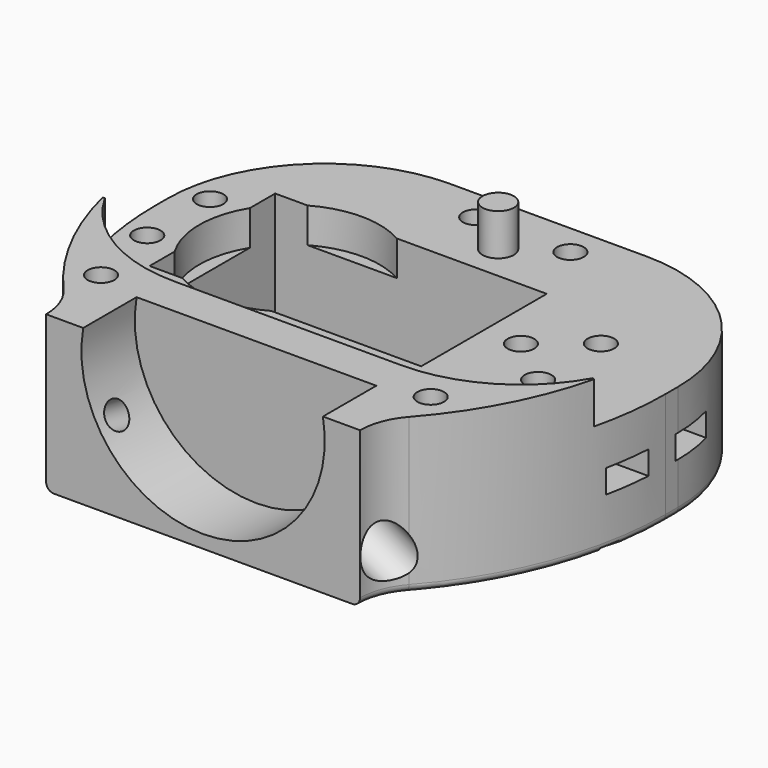
from build123d import *

# Parameters (mm, degrees)
SKETCH_R        = 1.7
SKETCH_W        = 34.6
SKETCH_H        = 20
PAD_DEPTH       = 19.8
SKETCH001_R     = 2
POCKET_DEPTH    = 5.3
CHAMFER_SIZE    = 1
SKETCH002_W     = 6.4
SKETCH002_H     = 20
POCKET001_DEPTH = 7.5
SKETCH003_R     = 1.7
POCKET002_DEPTH = 14.501
POCKET003_DEPTH = 11.7
POCKET004_DEPTH = 1.5
FILLET_R        = 1
SKETCH006_R     = 1.7
POCKET005_DEPTH = 19.801
POCKET006_DEPTH = 11.7
SKETCH008_R     = 15.5
POCKET007_DEPTH = 8.5
SKETCH009_R     = 1.7
POCKET008_DEPTH = 211.559351
SKETCH010_R     = 2.95
POCKET009_DEPTH = 191.640767
SKETCH011_R     = 11.5
POCKET010_DEPTH = 4.45
POCKET011_DEPTH = 6


with BuildPart() as part:
    # Sketch → Pad (new body)
    with BuildSketch(Plane.XY):
        with BuildLine():
            Line((-20, 0), (20, 0))
            ThreePointArc((22, 5.28), (20.516753, 2.823048), (20, 0))
            ThreePointArc((22, 5.28), (29.787045, 18.178998), (32.5, 33))
            Line((32.5, 35), (32.5, 33))
            ThreePointArc((32.5, 35), (26.642136, 49.142136), (12.5, 55))
            Line((-12.500001, 55), (12.5, 55))
            ThreePointArc((-12.500001, 55), (-26.642136, 49.142135), (-32.5, 35))
            Line((-32.5, 35), (-32.5, 33))
            ThreePointArc((-32.5, 33), (-29.787045, 18.178998), (-22, 5.28))
            ThreePointArc((-20, 0), (-20.516753, 2.823048), (-22, 5.28))
        make_face()
        with Locations((-29.115, 37.5)):
            Circle(SKETCH_R, mode=Mode.SUBTRACT)
        with Locations((-29.115, 27.5)):
            Circle(SKETCH_R, mode=Mode.SUBTRACT)
        with Locations((20.685, 37.5)):
            Circle(SKETCH_R, mode=Mode.SUBTRACT)
        with Locations((20.685, 27.5)):
            Circle(SKETCH_R, mode=Mode.SUBTRACT)
        with Locations((-6, 51)):
            Circle(SKETCH_R, mode=Mode.SUBTRACT)
        with Locations((6, 51)):
            Circle(SKETCH_R, mode=Mode.SUBTRACT)
        with Locations((-7.515, 32.5)):
            Rectangle(SKETCH_W, SKETCH_H, mode=Mode.SUBTRACT)
    extrude(amount=PAD_DEPTH)

    # Sketch001 (on Face22 of Pad) → Pocket (cut)
    with BuildSketch(Plane.XY.offset(19.8)):
        with BuildLine():
            ThreePointArc((-33.496229, 32.878542), (-28.068204, 19.199479), (-14.5, 13.5))
            Line((-14.5, 13.5), (14.5, 13.5))
            ThreePointArc((14.5, 13.5), (28.068204, 19.199479), (33.496229, 32.878542))
            ThreePointArc((33.496229, 32.878542), (0, 120), (-33.496229, 32.878542))
        make_face()
        with Locations((0, 47)):
            Circle(SKETCH001_R, mode=Mode.SUBTRACT)
    extrude(amount=-POCKET_DEPTH, mode=Mode.SUBTRACT)

    # Chamfer
    chamfer_edges = [part.edges().sort_by_distance(p)[0] for p in [
        (31.542605, 24.100617, 17.15),
        (-31.542605, 24.100617, 17.15),
    ]]
    chamfer(chamfer_edges, length=CHAMFER_SIZE)

    # Sketch002 (on Face27 of Chamfer) → Pocket001 (cut)
    with BuildSketch(Plane(origin=(0, 0, 0), x_dir=(1, 0, 0), z_dir=(0, 0, -1))):
        with Locations((12.985, -32.5)):
            Rectangle(SKETCH002_W, SKETCH002_H)
    extrude(amount=-POCKET001_DEPTH, mode=Mode.SUBTRACT)

    # Sketch003 (on Face1 of Pocket001) → Pocket002 (cut, through all)
    with BuildSketch(Plane.XY.offset(14.5)):
        with Locations((14.5, 32.5)):
            Circle(SKETCH003_R)
    extrude(amount=-POCKET002_DEPTH, mode=Mode.SUBTRACT)

    # Sketch004 (on Face28 of Pocket002) → Pocket003 (cut)
    with BuildSketch(Plane(origin=(0, 0, 0), x_dir=(1, 0, 0), z_dir=(0, 0, -1))):
        Polygon((14.5, -35.85), (17.401185, -34.175), (17.401185, -30.825), (14.5, -29.15), (11.598815, -30.825), (11.598815, -34.175), align=None)
    extrude(amount=-POCKET003_DEPTH, mode=Mode.SUBTRACT)

    # Sketch005 (on DatumPlane) → Pocket004 (cut, symmetric)
    with BuildSketch(Plane(origin=(0, 0, 7.85), x_dir=(1, 0, 0), z_dir=(0, 0, -1))):
        Polygon((19.01, -24.598815), (17.335, -27.5), (19.01, -30.401185), (39.01, -30.401185), (39.01, -24.598815), align=None)
        Polygon((19.01, -34.598815), (17.335, -37.5), (19.01, -40.401185), (39.01, -40.401185), (39.01, -34.598815), align=None)
        Polygon((-25.765, -37.5), (-27.44, -34.598815), (-47.44, -34.598815), (-47.44, -40.401185), (-27.44, -40.401185), align=None)
        Polygon((-25.765, -27.5), (-27.44, -24.598815), (-47.44, -24.598815), (-47.44, -30.401185), (-27.44, -30.401185), align=None)
    extrude(amount=POCKET004_DEPTH, both=True, mode=Mode.SUBTRACT)

    # Fillet
    fillet_edges = [part.edges().sort_by_distance(p)[0] for p in [
        (29.787045, 18.178998, 0),
    ]]
    fillet(fillet_edges, radius=FILLET_R)

    # Sketch006 (on Face4 of Fillet) → Pocket005 (cut, through all)
    with BuildSketch(Plane.XY.offset(19.8)):
        with Locations((-21, 10)):
            Circle(SKETCH006_R)
        with Locations((21, 10)):
            Circle(SKETCH006_R)
    extrude(amount=-POCKET005_DEPTH, mode=Mode.SUBTRACT)

    # Sketch007 (on Face14 of Pocket005) → Pocket006 (cut)
    with BuildSketch(Plane(origin=(0, 0, 0), x_dir=(1, 0, 0), z_dir=(0, 0, -1))):
        Polygon((-21, -13.35), (-18.098815, -11.675), (-18.098815, -8.325), (-21, -6.65), (-23.901185, -8.325), (-23.901185, -11.675), align=None)
        Polygon((21, -13.35), (23.901185, -11.675), (23.901185, -8.325), (21, -6.65), (18.098815, -8.325), (18.098815, -11.675), align=None)
    extrude(amount=-POCKET006_DEPTH, mode=Mode.SUBTRACT)

    # Sketch008 (on Face13 of Pocket006) → Pocket007 (cut)
    with BuildSketch(Plane.XZ):
        with Locations((0, 17.15)):
            Circle(SKETCH008_R)
    extrude(amount=-POCKET007_DEPTH, mode=Mode.SUBTRACT)

    # Sketch009 (on DatumPlane) → Pocket008 (cut, through all)
    with BuildSketch(Plane(origin=(0, 0, 17.15), x_dir=(-0.5, 0, 0.866025), z_dir=(0.866025, 0, 0.5))):
        with Locations((0, -3)):
            Circle(SKETCH009_R)
    pocket008 = extrude(amount=-POCKET008_DEPTH, mode=Mode.SUBTRACT)

    # Sketch010 (on DatumPlane) → Pocket009 (cut, through all)
    with BuildSketch(Plane(origin=(-23, 0, 17.15), x_dir=(0.5, 0, -0.866025), z_dir=(-0.866025, 0, -0.5))):
        with Locations((11.5, -3)):
            Circle(SKETCH010_R)
    pocket009 = extrude(amount=POCKET009_DEPTH, mode=Mode.SUBTRACT)

    # Mirrored: Pocket008, Pocket009 across YZ
    add(pocket008.mirror(Plane.YZ), mode=Mode.SUBTRACT)
    add(pocket009.mirror(Plane.YZ), mode=Mode.SUBTRACT)

    # Sketch011 (on Face4 of Mirrored) → Pocket010 (cut)
    with BuildSketch(Plane.XY.offset(14.5)):
        with Locations((-15, 32.5)):
            Circle(SKETCH011_R)
    extrude(amount=-POCKET010_DEPTH, mode=Mode.SUBTRACT)

    # Sketch012 (on Face14 of Pocket010) → Pocket011 (cut)
    with BuildSketch(Plane(origin=(0, 0, 0), x_dir=(1, 0, 0), z_dir=(0, 0, -1))):
        Polygon((-4.325, -48.098815), (-7.675, -48.098815), (-9.35, -51), (-7.675, -53.901185), (-4.325, -53.901185), (-2.65, -51), align=None)
        Polygon((7.675, -48.098815), (4.325, -48.098815), (2.65, -51), (4.325, -53.901185), (7.675, -53.901185), (9.35, -51), align=None)
    extrude(amount=-POCKET011_DEPTH, mode=Mode.SUBTRACT)


solid = part.part
